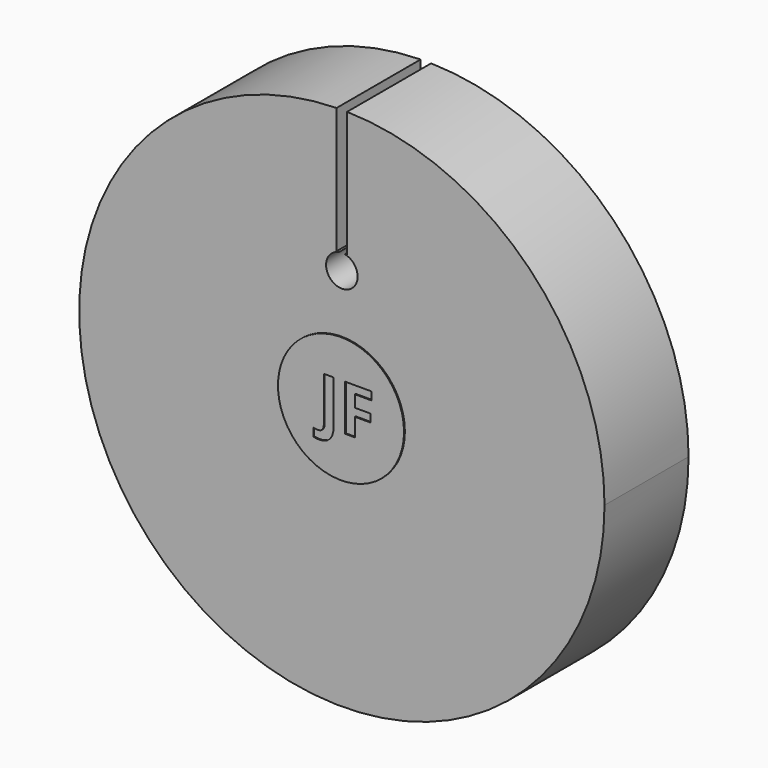
from build123d import *

# Parameters (mm, degrees)
F0_R     = 6.35
F1_DEPTH = 2.54
F2_R     = 0.381
F3_DEPTH = 11.938
F4_W     = 0.254
F4_H     = 3.2643415034
F5_DEPTH = 10.7696
F6_R     = 1.524
F7_DEPTH = 2.5654


with BuildPart() as f1:
    # F0 (on Front) → F1 (new body)
    with BuildSketch(Plane.XZ):
        Circle(F0_R)
    extrude(amount=F1_DEPTH)

    # F2 (on Front) → F3 (cut)
    with BuildSketch(Plane.XZ):
        with Locations((0, 2.9252786189)):
            Circle(F2_R)
    extrude(amount=F3_DEPTH, mode=Mode.SUBTRACT)

    # F4 (on Front) → F5 (cut)
    with BuildSketch(Plane.XZ):
        with Locations((-0.0004456008, 4.9322359264)):
            Rectangle(F4_W, F4_H)
    extrude(amount=F5_DEPTH, mode=Mode.SUBTRACT)

    # F6 (on Front) → F7 (join)
    with BuildSketch(Plane.XZ):
        Circle(F6_R)
        with BuildLine():
            add(Edge.make_bspline(
                [(-0.2672408938, -0.7273242873), (-0.3560866168, -0.8291747878), (-0.5301318635, -0.8291747878)],
                knots=[0, 0, 0, 1, 1, 1], degree=2))
            add(Edge.make_bspline(
                [(-0.5301318635, -0.8291747878), (-0.6098620882, -0.8291747878), (-0.6691735969, -0.812402271)],
                knots=[0, 0, 0, 1, 1, 1], degree=2))
            Line((-0.6691735969, -0.812402271), (-0.6691735969, -0.6164798285))
            add(Edge.make_bspline(
                [(-0.6691735969, -0.6164798285), (-0.6084036085, -0.6315507856), (-0.5583291381, -0.6315507856)],
                knots=[0, 0, 0, 1, 1, 1], degree=2))
            add(Edge.make_bspline(
                [(-0.5583291381, -0.6315507856), (-0.4807866329, -0.6315507856), (-0.4473631393, -0.5832994149)],
                knots=[0, 0, 0, 1, 1, 1], degree=2))
            add(Edge.make_bspline(
                [(-0.4473631393, -0.5832994149), (-0.4139396457, -0.5350480441), (-0.4139396457, -0.4324683037)],
                knots=[0, 0, 0, 1, 1, 1], degree=2))
            Line((-0.4139396457, -0.4324683037), (-0.4139396457, 0.6081569771))
            Line((-0.4139396457, 0.6081569771), (-0.1783951708, 0.6081569771))
            Line((-0.1783951708, 0.6081569771), (-0.1783951708, -0.431009824))
            add(Edge.make_bspline(
                [(-0.1783951708, -0.431009824), (-0.1783951708, -0.6254737868), (-0.2672408938, -0.7273242873)],
                knots=[0, 0, 0, 1, 1, 1], degree=2))
        make_face(mode=Mode.SUBTRACT)
        Polygon((0.3328019713, -0.0634729344), (0.3328019713, -0.5024753303), (0.1011467757, -0.5024753303), (0.1011467757, 0.6081569771), (0.7377731738, 0.6081569771), (0.7377731738, 0.415151494), (0.3328019713, 0.415151494), (0.3328019713, 0.1288033088), (0.7095758992, 0.1288033088), (0.7095758992, -0.0634729344), align=None, mode=Mode.SUBTRACT)
    extrude(amount=F7_DEPTH)


solid = f1.part
